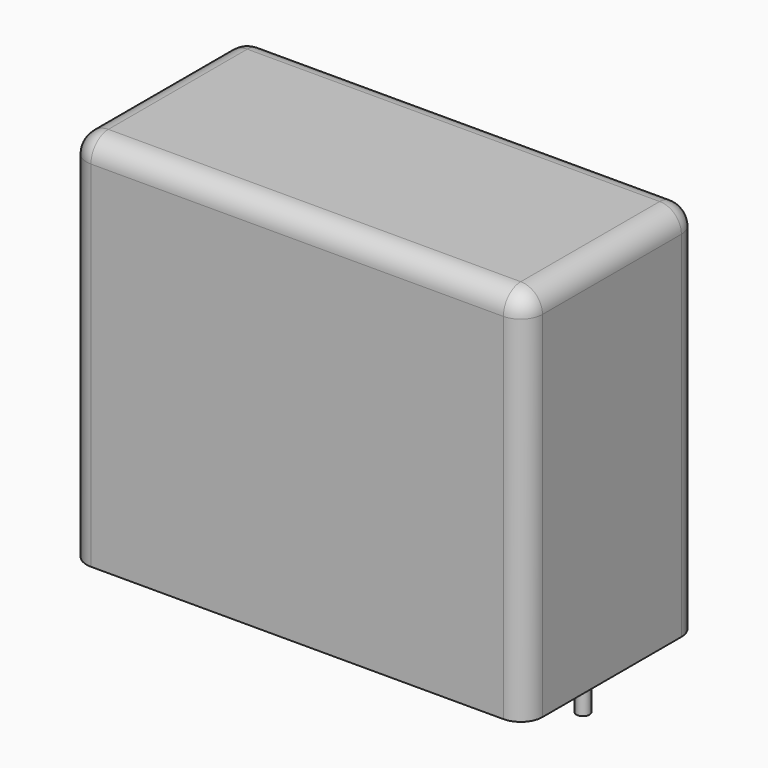
from build123d import *

# Parameters (mm, degrees)
SKETCH_W     = 31.5
SKETCH_H     = 15
PAD_DEPTH    = 26
FILLET_R     = 1.5
SKETCH001_R  = 0.45
PAD001_DEPTH = 3.2


with BuildPart() as fillet_body:
    # Sketch → Pad (new body)
    with BuildSketch(Plane.XY.offset(0.1)):
        with Locations((13.75, 0)):
            Rectangle(SKETCH_W, SKETCH_H)
    extrude(amount=PAD_DEPTH)

    # Fillet
    fillet_edges = [fillet_body.edges().sort_by_distance(p)[0] for p in [
        (-2, 0, 26.1),
        (-2, -7.5, 13.1),
        (13.75, -7.5, 26.1),
        (29.5, -7.5, 13.1),
        (29.5, 0, 26.1),
        (29.5, 7.5, 13.1),
        (13.75, 7.5, 26.1),
        (-2, 7.5, 13.1),
    ]]
    fillet(fillet_edges, radius=FILLET_R)


with BuildPart() as pad001:
    # Sketch001 → Pad001 (new body)
    with BuildSketch(Plane.XY.offset(0.5)):
        Circle(SKETCH001_R)
        with Locations((27.5, 0)):
            Circle(SKETCH001_R)
    extrude(amount=-PAD001_DEPTH)


solid = Compound([fillet_body.part, pad001.part])
